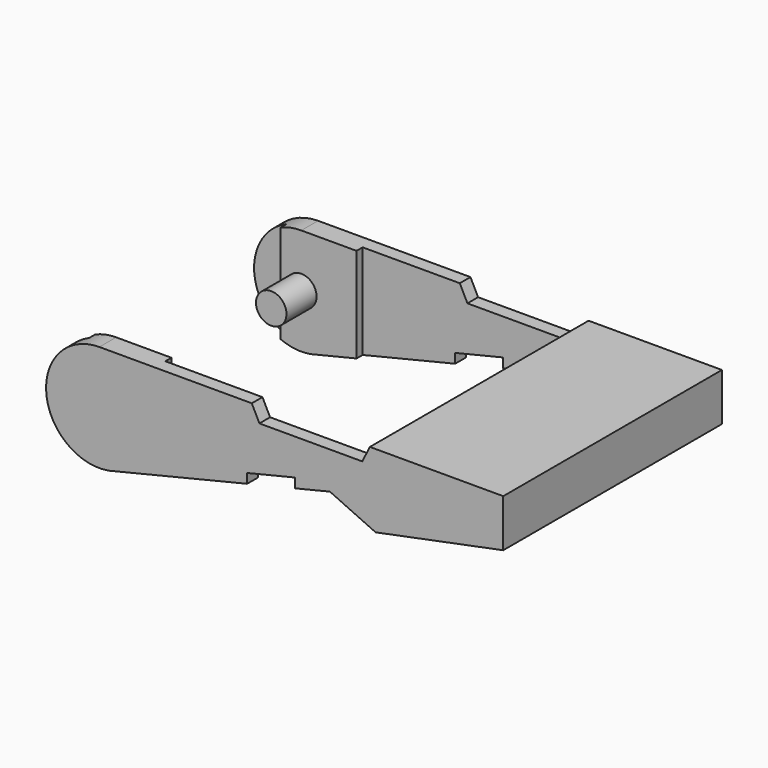
from build123d import *

# Parameters (mm, degrees)
CYLINDER005_R     = 0.8
CYLINDER005_DEPTH = 2
CYLINDER006_R     = 0.8
CYLINDER006_DEPTH = 2
BOX021_W          = 0.3
BOX021_H          = 12.95
BOX021_DEPTH      = 3.2
BOX020_W          = 4.8
BOX020_H          = 12.45
BOX020_DEPTH      = 4.6
BOX024_W          = 1.7
BOX024_H          = 12.95
BOX024_DEPTH      = 10
BOX022_W          = 11.3
BOX022_H          = 12.95
BOX022_DEPTH      = 10
BOX023_W          = 15.8
BOX023_H          = 12.15
BOX023_DEPTH      = 10
EXTRUDE_DEPTH     = 14.35


with BuildPart() as cylinder005:
    # Cylinder005 → Cylinder005 (new body)
    with BuildSketch(Plane(origin=(2.8, -4.1, 2.8), x_dir=(1, 0, 0), z_dir=(0, -1, 0))):
        Circle(CYLINDER005_R)
    extrude(amount=CYLINDER005_DEPTH)


with BuildPart() as cylinder006:
    # Cylinder006 → Cylinder006 (new body)
    with BuildSketch(Plane(origin=(2.8, 6.1, 2.8), x_dir=(1, 0, 0), z_dir=(0, -1, 0))):
        Circle(CYLINDER006_R)
    extrude(amount=CYLINDER006_DEPTH)


with BuildPart() as cube018:
    # Box021 → Box021 (new body)
    with BuildSketch(Plane(origin=(17, -6.475, 0), x_dir=(1, 0, 0), z_dir=(0, 0, 1))):
        with Locations((0.15, 6.475)):
            Rectangle(BOX021_W, BOX021_H)
    extrude(amount=BOX021_DEPTH)


with BuildPart() as compound002:
    # Box020 → Box020 (new body)
    with BuildSketch(Plane(origin=(18.2, -6.225, 0), x_dir=(1, 0, 0), z_dir=(0, 0, 1))):
        with Locations((2.4, 6.225)):
            Rectangle(BOX020_W, BOX020_H)
    extrude(amount=BOX020_DEPTH)

    # Compound002: union Cube018
    add(cube018.part)


with BuildPart() as cube021:
    # Box024 → Box024 (new body)
    with BuildSketch(Plane(origin=(0, -6.475, 0), x_dir=(1, 0, 0), z_dir=(0, 0, 1))):
        with Locations((0.85, 6.475)):
            Rectangle(BOX024_W, BOX024_H)
    extrude(amount=BOX024_DEPTH)


with BuildPart() as compound001:
    # Box022 → Box022 (new body)
    with BuildSketch(Plane(origin=(5.7, -6.475, 0), x_dir=(1, 0, 0), z_dir=(0, 0, 1))):
        with Locations((5.65, 6.475)):
            Rectangle(BOX022_W, BOX022_H)
    extrude(amount=BOX022_DEPTH)

    # Compound001: union Cube021
    add(cube021.part)


with BuildPart() as cube020:
    # Box023 → Box023 (new body)
    with BuildSketch(Plane(origin=(0, -6.075, 0), x_dir=(1, 0, 0), z_dir=(0, 0, 1))):
        with Locations((7.9, 6.075)):
            Rectangle(BOX023_W, BOX023_H)
    extrude(amount=BOX023_DEPTH)


with BuildPart() as leverunion:
    # Sketch → Extrude (new body)
    with BuildSketch(Plane.XZ):
        with BuildLine():
            ThreePointArc((2.8, 5.6), (0.010655, 2.555964), (3.286215, 0.042538))
            Line((3.286215, 0.042538), (10.556406, 1.8))
            Line((10.556406, 1.8), (10.556406, 2.3))
            Line((10.556406, 2.3), (13.056406, 2.904338))
            Line((13.056406, 2.404338), (13.056406, 2.904338))
            Line((13.056406, 2.404338), (14.9, 2.85))
            Line((14.9, 2.85), (17.3, 1.75))
            Line((17.3, 1.75), (24, 3.1))
            Line((24, 5.6), (24, 3.1))
            Line((17, 5.6), (24, 5.6))
            Line((16.6, 4.8), (17, 5.6))
            Line((11.2, 4.8), (16.6, 4.8))
            Line((11.2, 4.8), (10.8, 5.6))
            Line((2.8, 5.6), (10.8, 5.6))
        make_face()
    extrude(amount=EXTRUDE_DEPTH)


with BuildPart() as leverunion_1:
    # Extrude placement: moved
    add(leverunion.part.moved(Location((0, 7.175, 0))))

    # Cut009: cut Cube020
    add(cube020.part, mode=Mode.SUBTRACT)

    # Cut008: cut Compound001
    add(compound001.part, mode=Mode.SUBTRACT)

    # Cut007: cut Compound002
    add(compound002.part, mode=Mode.SUBTRACT)

    # Fusion006: union Cylinder005, Cylinder006
    add(cylinder005.part)
    add(cylinder006.part)


with BuildPart() as leverunion_2:
    # Fusion006 placement: moved
    add(leverunion_1.part.moved(Location((-8.25, 0, 2.3))))


solid = leverunion_2.part
